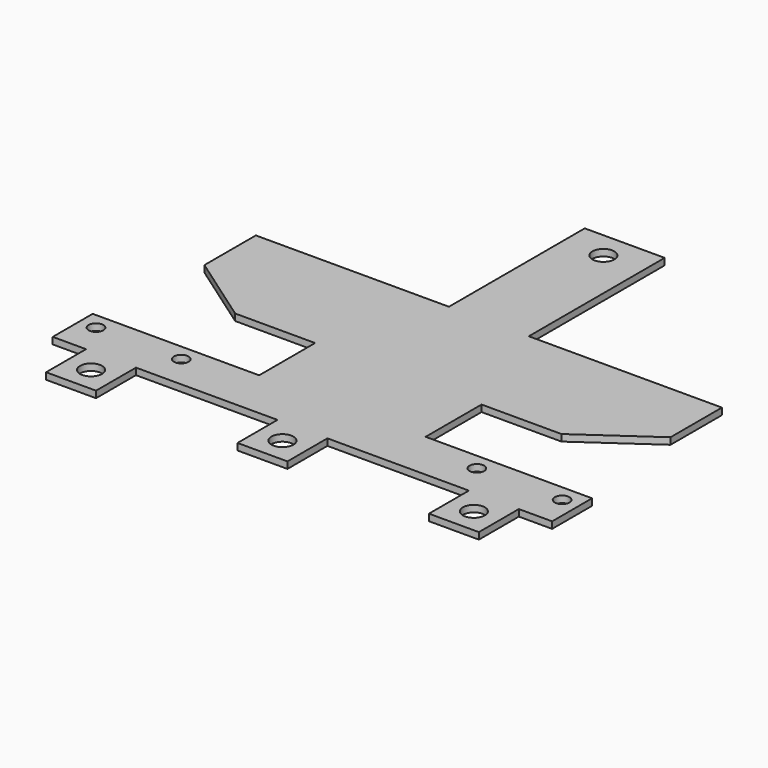
from build123d import *

# Parameters (mm, degrees)
EXTRUDE_DEPTH = 1
SKETCH001_R   = 1.1
HOLE_DEPTH    = 5
SKETCH002_R   = 1.65
HOLE001_DEPTH = 3


with BuildPart() as part:
    # Sketch → Extrude (new body)
    with BuildSketch(Plane.XY):
        Polygon((0, 0), (5, 0), (5, -7.5), (12.5, -7.5), (12.5, 0), (33.75, 0), (33.75, -7.5), (41.25, -7.5), (41.25, 0), (62.5, 0), (62.5, -7.5), (70, -7.5), (70, 0), (75, 0), (75, 7.5), (50, 7.5), (50, 18), (62, 18), (72.500012, 25.352225), (72.500012, 35), (43.500012, 35), (43.500012, 60.5), (31.500012, 60.5), (31.500012, 35), (2.500012, 35), (2.499988, 25.352225), (13, 18), (25, 18), (25, 7.5), (0, 7.5), align=None)
    extrude(amount=EXTRUDE_DEPTH)

    # Sketch001 (on Face32 of Extrude) → Hole (cut)
    with BuildSketch(Plane.XY.offset(1)):
        with Locations((2.5, 5)):
            Circle(SKETCH001_R)
        with Locations((15.3, 5)):
            Circle(SKETCH001_R)
        with Locations((59.7, 5)):
            Circle(SKETCH001_R)
        with Locations((72.5, 5)):
            Circle(SKETCH001_R)
    extrude(amount=-HOLE_DEPTH, mode=Mode.SUBTRACT)

    # Sketch002 (on Face5 of Hole) → Hole001 (cut)
    with BuildSketch(Plane.XY.offset(1)):
        with Locations((8.75, -3.75)):
            Circle(SKETCH002_R)
        with Locations((37.5, -3.75)):
            Circle(SKETCH002_R)
        with Locations((66.25, -3.75)):
            Circle(SKETCH002_R)
        with Locations((37.5, 56.5)):
            Circle(SKETCH002_R)
    extrude(amount=-HOLE001_DEPTH, mode=Mode.SUBTRACT)


solid = part.part
